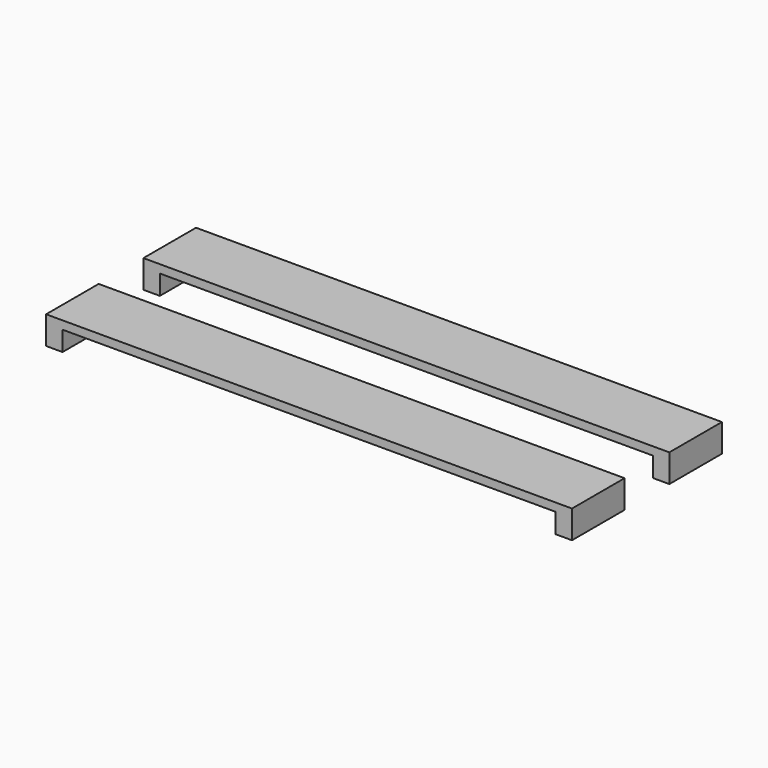
from build123d import *

# Parameters (mm, degrees)
F0_W     = 160
F0_H     = 20
F1_DEPTH = 2.5
F2_W     = 5
F2_H     = 20
F3_DEPTH = 6
F4_W     = 160
F4_H     = 20
F5_DEPTH = 2.5
F6_W     = 5
F6_H     = 20
F7_DEPTH = 6


with BuildPart() as f1:
    # F0 (on Top) → F1 (new body)
    with BuildSketch(Plane.XY):
        Rectangle(F0_W, F0_H)
    extrude(amount=-F1_DEPTH)

    # F2 (on face) → F3 (join)
    with BuildSketch(Plane(origin=(0, 0, -2.5), x_dir=(1, 0, 0), z_dir=(0, 0, -1))):
        with Locations((-77.5, 0)):
            Rectangle(F2_W, F2_H)
        with Locations((77.5, 0)):
            Rectangle(F2_W, F2_H)
    extrude(amount=F3_DEPTH)


with BuildPart() as f5:
    # F4 (on Top) → F5 (new body)
    with BuildSketch(Plane.XY):
        with Locations((0, 37.014924)):
            Rectangle(F4_W, F4_H)
    extrude(amount=-F5_DEPTH)

    # F6 (on face) → F7 (join)
    with BuildSketch(Plane(origin=(0, 0, -2.5), x_dir=(1, 0, 0), z_dir=(0, 0, -1))):
        with Locations((-77.5, -37.014924)):
            Rectangle(F6_W, F6_H)
        with Locations((77.5, -37.014924)):
            Rectangle(F6_W, F6_H)
    extrude(amount=F7_DEPTH)


solid = Compound([f1.part, f5.part])
